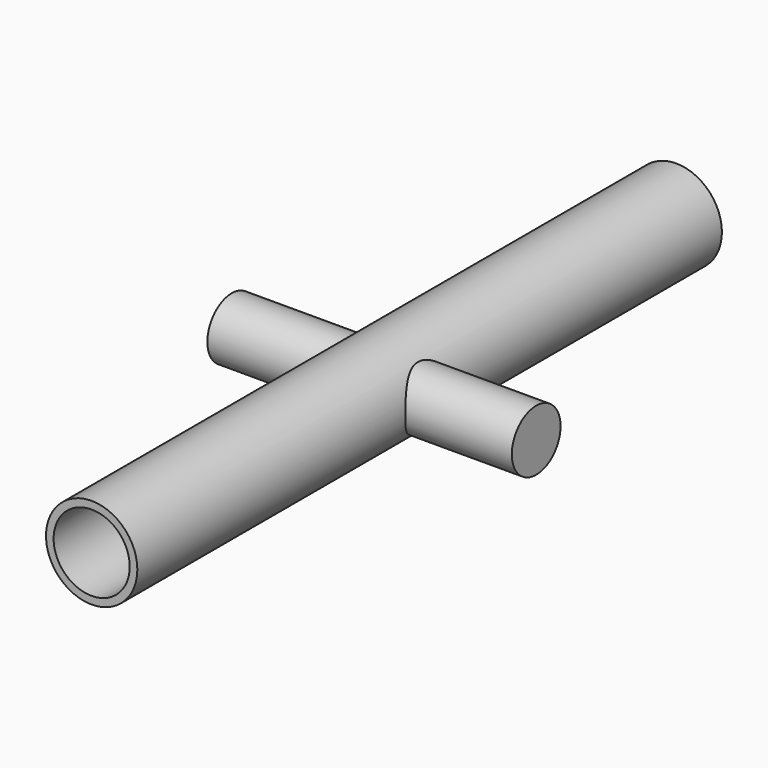
from build123d import *

# Parameters (mm, degrees)
F0_R     = 38.1
F0_R_2   = 31.75
F1_DEPTH = 304.8
F2_R     = 25.4
F3_DEPTH = 127


with BuildPart() as f1:
    # F0 (on Front) → F1 (new body, symmetric)
    with BuildSketch(Plane.XZ):
        Circle(F0_R)
        Circle(F0_R_2, mode=Mode.SUBTRACT)
    extrude(amount=F1_DEPTH, both=True)

    # F2 (on Right) → F3 (join, symmetric)
    with BuildSketch(Plane.YZ):
        Circle(F2_R)
    extrude(amount=F3_DEPTH, both=True)


solid = f1.part
